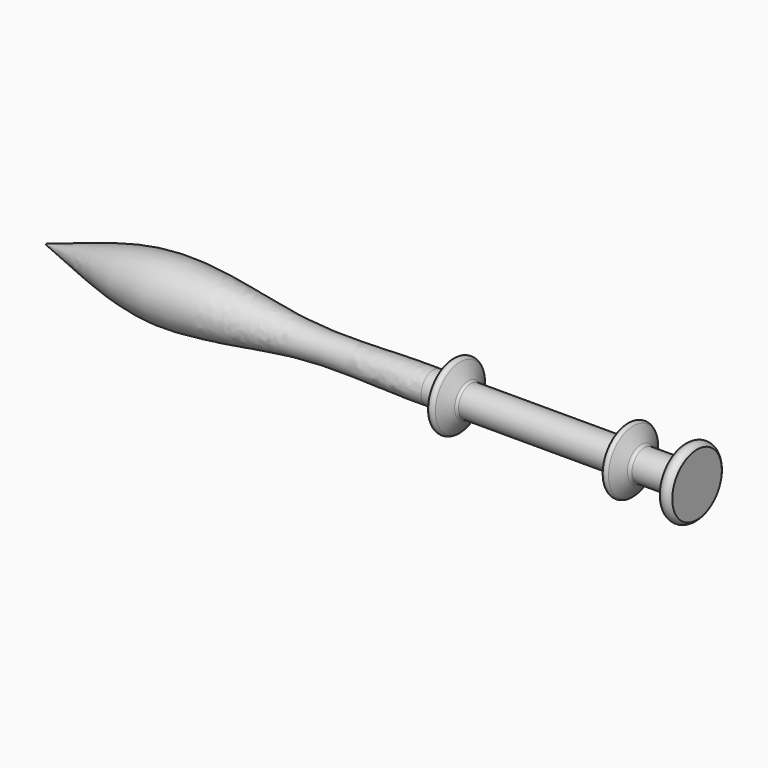
from build123d import *


with BuildPart() as f1:
    # F0 (on Front) → F1 (revolve)
    with BuildSketch(Plane.XZ):
        with BuildLine():
            Line((0, -5), (0, 0))
            Line((0, 0), (-105, 0))
            Line((-105, 0), (-105, -0.1))
            add(Edge.make_bspline(
                [(-42.5495617092, -2.5), (-50.3706470163, -2.6230067368), (-62.5504578621, -1.2092378674), (-86.1358387962, -6.9125709952), (-97.7502984256, -2.3149304146), (-105, -0.1)],
                knots=[0, 0, 0, 0, 0.3302973719, 0.6741359572, 1, 1, 1, 1], degree=3))
            Line((-42.5495617092, -2.5), (-39.5, -2.5))
            Line((-39.5, -2.5), (-39.5, -4.6602540378))
            ThreePointArc((-39.5, -4.6602540378), (-38.9963735267, -5.3165928363), (-38.2320508076, -5))
            Line((-38.2320508076, -5), (-36.9330127019, -2.75))
            ThreePointArc((-36.9330127019, -2.75), (-36.75, -2.5669872981), (-36.5, -2.5))
            Line((-36.5, -2.5), (-11.5, -2.5))
            ThreePointArc((-11.5, -2.5), (-11.3585786438, -2.5585786438), (-11.3, -2.7))
            Line((-11.3, -2.7), (-11.3, -4.7293139302))
            ThreePointArc((-11.3, -4.7293139302), (-10.8987452806, -5.2522392615), (-10.2897858345, -5))
            Line((-10.2897858345, -5), (-9.0196152423, -2.8))
            ThreePointArc((-9.0196152423, -2.8), (-8.8, -2.5803847577), (-8.5, -2.5))
            Line((-8.5, -2.5), (-3.5, -2.5))
            ThreePointArc((-3.5, -2.5), (-3.4509618943, -2.5131397208), (-3.4150635095, -2.5490381057))
            Line((-3.4150635095, -2.5490381057), (-2, -5))
            ThreePointArc((-2, -5), (-1, -5.5773502692), (0, -5))
        make_face()
    revolve(axis=Axis((-52.5, 0, 0), (1, 0, 0)))


solid = f1.part
